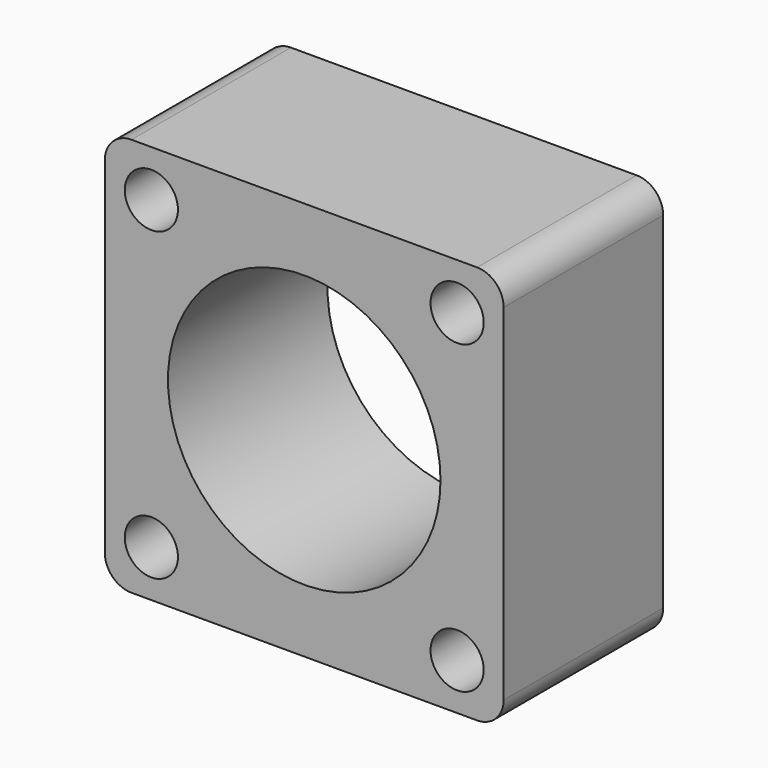
from build123d import *

# Parameters (mm, degrees)
F0_R     = 2
F0_R_2   = 10.25
F1_DEPTH = 15


with BuildPart() as f1:
    # F0 (on Front) → F1 (new body)
    with BuildSketch(Plane.XZ):
        with BuildLine():
            Line((13, 15), (-13, 15))
            ThreePointArc((-13, 15), (-14.414214, 14.414214), (-15, 13))
            Line((-15, 13), (-15, -13))
            ThreePointArc((-15, -13), (-14.414214, -14.414214), (-13, -15))
            Line((-13, -15), (13, -15))
            ThreePointArc((13, -15), (14.414214, -14.414214), (15, -13))
            Line((15, -13), (15, 13))
            ThreePointArc((15, 13), (14.414214, 14.414214), (13, 15))
        make_face()
        with Locations((-11.5, -11.5)):
            Circle(F0_R, mode=Mode.SUBTRACT)
        with Locations((11.5, -11.5)):
            Circle(F0_R, mode=Mode.SUBTRACT)
        with Locations((-11.5, 11.5)):
            Circle(F0_R, mode=Mode.SUBTRACT)
        Circle(F0_R_2, mode=Mode.SUBTRACT)
        with Locations((11.5, 11.5)):
            Circle(F0_R, mode=Mode.SUBTRACT)
    extrude(amount=F1_DEPTH)


solid = f1.part
